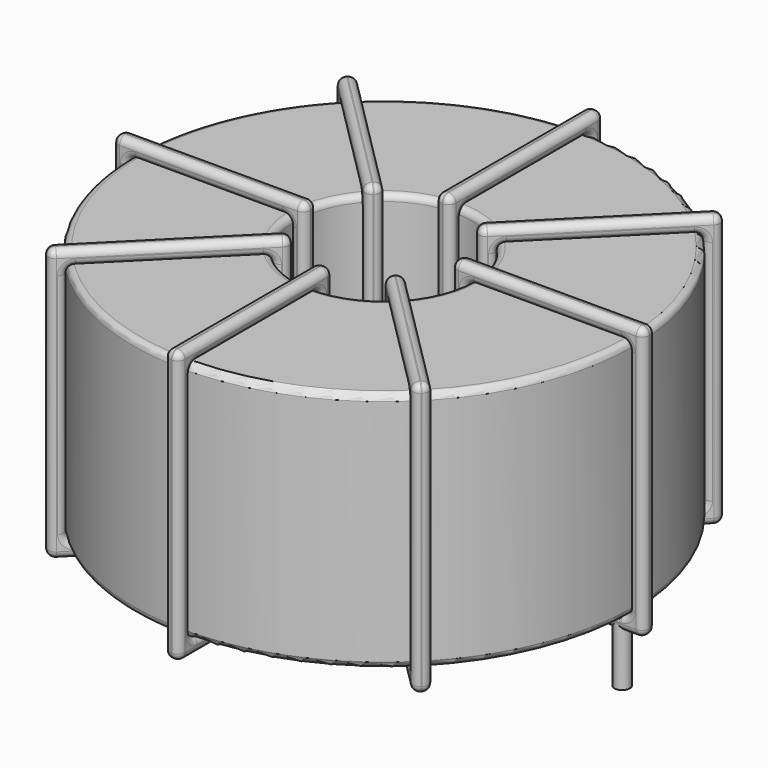
from build123d import *

# Parameters (mm, degrees)
SKETCH001_R       = 0.6
PAD001_DEPTH      = 0.6
PAD001_DEPTH_BACK = 4.7
SKETCH_R          = 19.75
SKETCH_R_2        = 6.983333
PAD_DEPTH         = 19.1
FILLET_R          = 0.5
SKETCH003_W       = 15.166667
SKETCH003_H       = 21.5
SKETCH003_W_2     = 12.766667
SKETCH003_H_2     = 19.1
PAD002_DEPTH      = 0.6
FILLET001_R       = 0.564
SKETCH004_W       = 15.166667
SKETCH004_H       = 21.5
SKETCH004_W_2     = 12.766667
SKETCH004_H_2     = 19.1
PAD003_DEPTH      = 0.6
FILLET002_R       = 0.564
SKETCH005_W       = 15.166667
SKETCH005_H       = 21.5
SKETCH005_W_2     = 12.766667
SKETCH005_H_2     = 19.1
PAD004_DEPTH      = 0.6
FILLET003_R       = 0.564
SKETCH006_W       = 15.166667
SKETCH006_H       = 21.5
SKETCH006_W_2     = 12.766667
SKETCH006_H_2     = 19.1
PAD005_DEPTH      = 0.6
FILLET004_R       = 0.564


with BuildPart() as pad001:
    # Sketch001 → Pad001 (new body, two sides)
    with BuildSketch(Plane.XY.offset(1.1)) as pad001_sk:
        Circle(SKETCH001_R)
        with Locations((37.6, 0)):
            Circle(SKETCH001_R)
    extrude(amount=PAD001_DEPTH)
    extrude(pad001_sk.sketch, amount=-PAD001_DEPTH_BACK)


with BuildPart() as fillet_body:
    # Sketch → Pad (new body)
    with BuildSketch(Plane.XY.offset(1.7)):
        with Locations((18.8, 0)):
            Circle(SKETCH_R)
        with Locations((18.8, 0)):
            Circle(SKETCH_R_2, mode=Mode.SUBTRACT)
    extrude(amount=PAD_DEPTH)

    # Fillet
    fillet_edges = [fillet_body.edges().sort_by_distance(p)[0] for p in [
        (11.816667, 0, 20.8),
        (-0.95, 0, 20.8),
        (-0.95, 0, 1.7),
    ]]
    fillet(fillet_edges, radius=FILLET_R)


with BuildPart() as fillet001:
    # Sketch003 → Pad002 (new body, symmetric)
    with BuildSketch(Plane(origin=(18.8, 0, 0), x_dir=(1, 0, 0), z_dir=(0, -1, 0))):
        with Locations((-13.366666, 11.25)):
            Rectangle(SKETCH003_W, SKETCH003_H)
        with Locations((-13.366667, 11.25)):
            Rectangle(SKETCH003_W_2, SKETCH003_H_2, mode=Mode.SUBTRACT)
        with Locations((13.366666, 11.25)):
            Rectangle(SKETCH003_W, SKETCH003_H)
        with Locations((13.366667, 11.25)):
            Rectangle(SKETCH003_W_2, SKETCH003_H_2, mode=Mode.SUBTRACT)
    extrude(amount=PAD002_DEPTH, both=True)

    # Fillet001
    fillet001_edges = [fillet001.edges().sort_by_distance(p)[0] for p in [
        (11.816667, 0, 20.8),
        (11.816667, 0, 1.7),
        (11.816667, 0.6, 11.25),
        (11.816667, -0.6, 11.25),
        (-2.15, 0, 22),
        (13.016667, 0, 22),
        (5.433333, 0.6, 22),
        (5.433333, -0.6, 22),
        (13.016667, 0, 0.5),
        (13.016667, 0.6, 11.25),
        (13.016667, -0.6, 11.25),
        (25.783333, 0, 20.8),
        (38.55, 0, 20.8),
        (32.166667, 0.6, 20.8),
        (32.166667, -0.6, 20.8),
        (38.55, 0, 1.7),
        (38.55, 0.6, 11.25),
        (38.55, -0.6, 11.25),
        (24.583333, 0, 22),
        (39.75, 0, 22),
        (32.166667, 0.6, 22),
        (32.166667, -0.6, 22),
        (39.75, 0, 0.5),
        (39.75, 0.6, 11.25),
        (39.75, -0.6, 11.25),
        (-0.95, 0, 20.8),
        (5.433333, 0.6, 20.8),
        (5.433333, -0.6, 20.8),
        (25.783333, 0, 1.7),
        (25.783333, 0.6, 11.25),
        (25.783333, -0.6, 11.25),
        (32.166667, 0.6, 1.7),
        (32.166667, -0.6, 1.7),
        (24.583333, 0, 0.5),
        (32.166667, 0.6, 0.5),
        (32.166667, -0.6, 0.5),
        (24.583333, 0.6, 11.25),
        (24.583333, -0.6, 11.25),
        (-2.15, 0, 0.5),
        (5.433333, 0.6, 0.5),
        (5.433333, -0.6, 0.5),
        (-2.15, 0.6, 11.25),
        (-2.15, -0.6, 11.25),
        (-0.95, 0, 1.7),
        (-0.95, 0.6, 11.25),
        (-0.95, -0.6, 11.25),
        (5.433333, 0.6, 1.7),
        (5.433333, -0.6, 1.7),
    ]]
    fillet(fillet001_edges, radius=FILLET001_R)


with BuildPart() as fillet002:
    # Sketch004 → Pad003 (new body, symmetric)
    with BuildSketch(Plane(origin=(18.8, 0, 0), x_dir=(0.707107, 0.707107, 0), z_dir=(0.707107, -0.707107, 0))):
        with Locations((-13.366666, 11.25)):
            Rectangle(SKETCH004_W, SKETCH004_H)
        with Locations((-13.366667, 11.25)):
            Rectangle(SKETCH004_W_2, SKETCH004_H_2, mode=Mode.SUBTRACT)
        with Locations((13.366666, 11.25)):
            Rectangle(SKETCH004_W, SKETCH004_H)
        with Locations((13.366667, 11.25)):
            Rectangle(SKETCH004_W_2, SKETCH004_H_2, mode=Mode.SUBTRACT)
    extrude(amount=PAD003_DEPTH, both=True)

    # Fillet002
    fillet002_edges = [fillet002.edges().sort_by_distance(p)[0] for p in [
        (4.834641, -13.965359, 20.8),
        (13.862038, -4.937962, 1.7),
        (8.924075, -9.027397, 1.7),
        (9.772603, -9.875925, 1.7),
        (3.986113, -14.813887, 22),
        (3.986113, -14.813887, 0.5),
        (3.561849, -14.389623, 11.25),
        (4.410377, -15.238151, 11.25),
        (14.710566, -4.089434, 22),
        (8.924075, -9.027397, 0.5),
        (9.772603, -9.875925, 0.5),
        (23.737962, 4.937962, 20.8),
        (32.765359, 13.965359, 20.8),
        (27.827397, 9.875925, 20.8),
        (28.675925, 9.027397, 20.8),
        (32.765359, 13.965359, 1.7),
        (32.341095, 14.389623, 11.25),
        (33.189623, 13.541095, 11.25),
        (22.889434, 4.089434, 22),
        (33.613887, 14.813887, 22),
        (27.827397, 9.875925, 22),
        (28.675925, 9.027397, 22),
        (33.613887, 14.813887, 0.5),
        (33.189623, 15.238151, 11.25),
        (34.038151, 14.389623, 11.25),
        (4.834641, -13.965359, 1.7),
        (4.410377, -13.541095, 11.25),
        (5.258905, -14.389623, 11.25),
        (23.737962, 4.937962, 1.7),
        (23.313698, 5.362226, 11.25),
        (24.162226, 4.513698, 11.25),
        (27.827397, 9.875925, 1.7),
        (28.675925, 9.027397, 1.7),
        (22.889434, 4.089434, 0.5),
        (27.827397, 9.875925, 0.5),
        (28.675925, 9.027397, 0.5),
        (22.46517, 4.513698, 11.25),
        (23.313698, 3.66517, 11.25),
        (14.710566, -4.089434, 0.5),
        (14.286302, -3.66517, 11.25),
        (15.13483, -4.513698, 11.25),
        (8.924075, -9.027397, 22),
        (9.772603, -9.875925, 22),
        (13.862038, -4.937962, 20.8),
        (8.924075, -9.027397, 20.8),
        (9.772603, -9.875925, 20.8),
        (13.437774, -4.513698, 11.25),
        (14.286302, -5.362226, 11.25),
    ]]
    fillet(fillet002_edges, radius=FILLET002_R)


with BuildPart() as fillet003:
    # Sketch005 → Pad004 (new body, symmetric)
    with BuildSketch(Plane(origin=(18.8, 0, 0), x_dir=(0.707107, -0.707107, 0), z_dir=(-0.707107, -0.707107, 0))):
        with Locations((-13.366666, 11.25)):
            Rectangle(SKETCH005_W, SKETCH005_H)
        with Locations((-13.366667, 11.25)):
            Rectangle(SKETCH005_W_2, SKETCH005_H_2, mode=Mode.SUBTRACT)
        with Locations((13.366666, 11.25)):
            Rectangle(SKETCH005_W, SKETCH005_H)
        with Locations((13.366667, 11.25)):
            Rectangle(SKETCH005_W_2, SKETCH005_H_2, mode=Mode.SUBTRACT)
    extrude(amount=PAD004_DEPTH, both=True)

    # Fillet003
    fillet003_edges = [fillet003.edges().sort_by_distance(p)[0] for p in [
        (4.834641, 13.965359, 20.8),
        (13.862038, 4.937962, 1.7),
        (9.772603, 9.875925, 1.7),
        (8.924075, 9.027397, 1.7),
        (3.986113, 14.813887, 22),
        (14.710566, 4.089434, 22),
        (9.772603, 9.875925, 22),
        (8.924075, 9.027397, 22),
        (14.710566, 4.089434, 0.5),
        (15.13483, 4.513698, 11.25),
        (14.286302, 3.66517, 11.25),
        (23.737962, -4.937962, 20.8),
        (32.765359, -13.965359, 20.8),
        (28.675925, -9.027397, 20.8),
        (27.827397, -9.875925, 20.8),
        (32.765359, -13.965359, 1.7),
        (33.189623, -13.541095, 11.25),
        (32.341095, -14.389623, 11.25),
        (22.889434, -4.089434, 0.5),
        (22.889434, -4.089434, 22),
        (23.313698, -3.66517, 11.25),
        (22.46517, -4.513698, 11.25),
        (33.613887, -14.813887, 0.5),
        (28.675925, -9.027397, 0.5),
        (27.827397, -9.875925, 0.5),
        (4.834641, 13.965359, 1.7),
        (5.258905, 14.389623, 11.25),
        (4.410377, 13.541095, 11.25),
        (23.737962, -4.937962, 1.7),
        (24.162226, -4.513698, 11.25),
        (23.313698, -5.362226, 11.25),
        (28.675925, -9.027397, 1.7),
        (27.827397, -9.875925, 1.7),
        (33.613887, -14.813887, 22),
        (34.038151, -14.389623, 11.25),
        (33.189623, -15.238151, 11.25),
        (28.675925, -9.027397, 22),
        (27.827397, -9.875925, 22),
        (3.986113, 14.813887, 0.5),
        (9.772603, 9.875925, 0.5),
        (8.924075, 9.027397, 0.5),
        (4.410377, 15.238151, 11.25),
        (3.561849, 14.389623, 11.25),
        (13.862038, 4.937962, 20.8),
        (9.772603, 9.875925, 20.8),
        (8.924075, 9.027397, 20.8),
        (14.286302, 5.362226, 11.25),
        (13.437774, 4.513698, 11.25),
    ]]
    fillet(fillet003_edges, radius=FILLET003_R)


with BuildPart() as fillet004:
    # Sketch006 → Pad005 (new body, symmetric)
    with BuildSketch(Plane.YZ.offset(18.8)):
        with Locations((-13.366666, 11.25)):
            Rectangle(SKETCH006_W, SKETCH006_H)
        with Locations((-13.366667, 11.25)):
            Rectangle(SKETCH006_W_2, SKETCH006_H_2, mode=Mode.SUBTRACT)
        with Locations((13.366666, 11.25)):
            Rectangle(SKETCH006_W, SKETCH006_H)
        with Locations((13.366667, 11.25)):
            Rectangle(SKETCH006_W_2, SKETCH006_H_2, mode=Mode.SUBTRACT)
    extrude(amount=PAD005_DEPTH, both=True)

    # Fillet004
    fillet004_edges = [fillet004.edges().sort_by_distance(p)[0] for p in [
        (18.8, -6.983333, 20.8),
        (18.8, -6.983333, 1.7),
        (18.2, -6.983333, 11.25),
        (19.4, -6.983333, 11.25),
        (18.8, -20.95, 22),
        (18.8, -5.783333, 22),
        (18.2, -13.366667, 22),
        (19.4, -13.366667, 22),
        (18.8, -5.783333, 0.5),
        (18.2, -5.783333, 11.25),
        (19.4, -5.783333, 11.25),
        (18.8, 6.983333, 20.8),
        (18.8, 19.75, 20.8),
        (18.2, 13.366667, 20.8),
        (19.4, 13.366667, 20.8),
        (18.8, 19.75, 1.7),
        (18.2, 19.75, 11.25),
        (19.4, 19.75, 11.25),
        (18.8, 5.783333, 22),
        (18.8, 20.95, 22),
        (18.2, 13.366667, 22),
        (19.4, 13.366667, 22),
        (18.8, 20.95, 0.5),
        (18.2, 20.95, 11.25),
        (19.4, 20.95, 11.25),
        (18.8, -19.75, 20.8),
        (18.2, -13.366667, 20.8),
        (19.4, -13.366667, 20.8),
        (18.8, 6.983333, 1.7),
        (18.2, 6.983333, 11.25),
        (19.4, 6.983333, 11.25),
        (18.2, 13.366667, 1.7),
        (19.4, 13.366667, 1.7),
        (18.8, 5.783333, 0.5),
        (18.2, 13.366667, 0.5),
        (19.4, 13.366667, 0.5),
        (18.2, 5.783333, 11.25),
        (19.4, 5.783333, 11.25),
        (18.8, -20.95, 0.5),
        (18.2, -13.366667, 0.5),
        (19.4, -13.366667, 0.5),
        (18.2, -20.95, 11.25),
        (19.4, -20.95, 11.25),
        (18.8, -19.75, 1.7),
        (18.2, -19.75, 11.25),
        (19.4, -19.75, 11.25),
        (18.2, -13.366667, 1.7),
        (19.4, -13.366667, 1.7),
    ]]
    fillet(fillet004_edges, radius=FILLET004_R)


solid = Compound([pad001.part, fillet_body.part, fillet001.part, fillet002.part, fillet003.part, fillet004.part])
